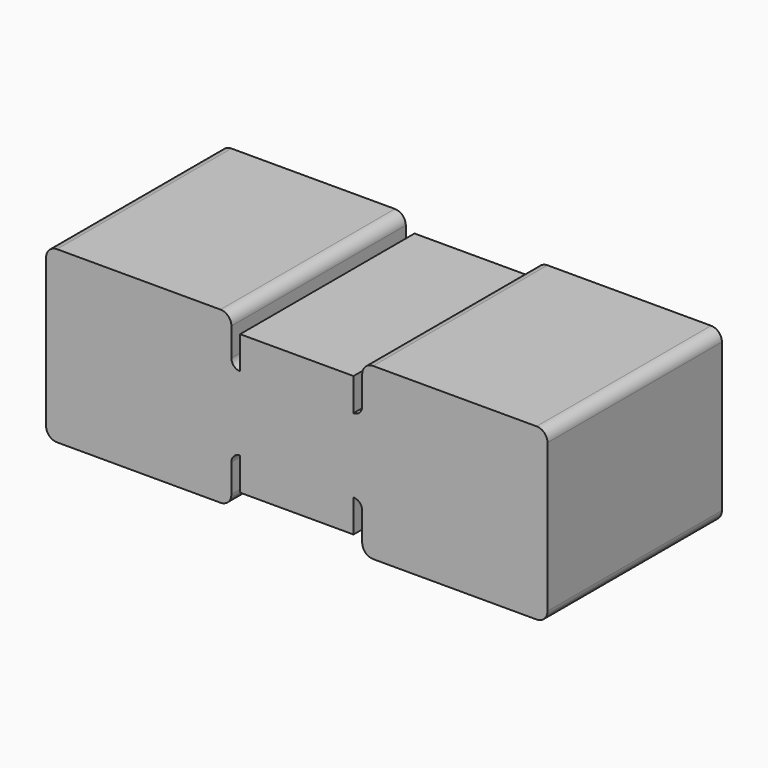
from build123d import *

# Parameters (mm, degrees)
F1_DEPTH = 25.4


with BuildPart() as f1:
    # F0 (on Front) → F1 (new body)
    with BuildSketch(Plane.XZ):
        with BuildLine():
            Line((-29.21, 8.636), (-29.21, 0))
            Line((-29.21, 0), (-29.21, -8.636))
            ThreePointArc((-29.21, -8.636), (-28.838026, -9.534026), (-27.94, -9.906))
            Line((-27.94, -9.906), (-8.89, -9.906))
            ThreePointArc((-8.89, -9.906), (-7.991974, -9.534026), (-7.62, -8.636))
            Line((-7.62, -8.636), (-7.62, -5.334))
            ThreePointArc((-7.62, -5.334), (-7.32242, -4.61558), (-6.604, -4.318))
            Line((-6.604, -4.318), (-6.604, -8.128))
            Line((-6.604, -8.128), (0, -8.128))
            Line((0, -8.128), (6.604, -8.128))
            Line((6.604, -8.128), (6.604, -4.318))
            ThreePointArc((6.604, -4.318), (7.32242, -4.61558), (7.62, -5.334))
            Line((7.62, -5.334), (7.62, -8.636))
            ThreePointArc((7.62, -8.636), (7.991974, -9.534026), (8.89, -9.906))
            Line((8.89, -9.906), (27.94, -9.906))
            ThreePointArc((27.94, -9.906), (28.838026, -9.534026), (29.21, -8.636))
            Line((29.21, -8.636), (29.21, 0))
            Line((29.21, 0), (29.21, 8.636))
            ThreePointArc((29.21, 8.636), (28.838026, 9.534026), (27.94, 9.906))
            Line((27.94, 9.906), (8.89, 9.906))
            ThreePointArc((8.89, 9.906), (7.991974, 9.534026), (7.62, 8.636))
            Line((7.62, 8.636), (7.62, 5.334))
            ThreePointArc((7.62, 5.334), (7.32242, 4.61558), (6.604, 4.318))
            Line((6.604, 4.318), (6.604, 8.128))
            Line((6.604, 8.128), (0, 8.128))
            Line((0, 8.128), (-6.604, 8.128))
            Line((-6.604, 8.128), (-6.604, 4.318))
            ThreePointArc((-6.604, 4.318), (-7.32242, 4.61558), (-7.62, 5.334))
            Line((-7.62, 5.334), (-7.62, 8.636))
            ThreePointArc((-7.62, 8.636), (-7.991974, 9.534026), (-8.89, 9.906))
            Line((-8.89, 9.906), (-27.94, 9.906))
            ThreePointArc((-27.94, 9.906), (-28.838026, 9.534026), (-29.21, 8.636))
        make_face()
    extrude(amount=F1_DEPTH)


solid = f1.part
